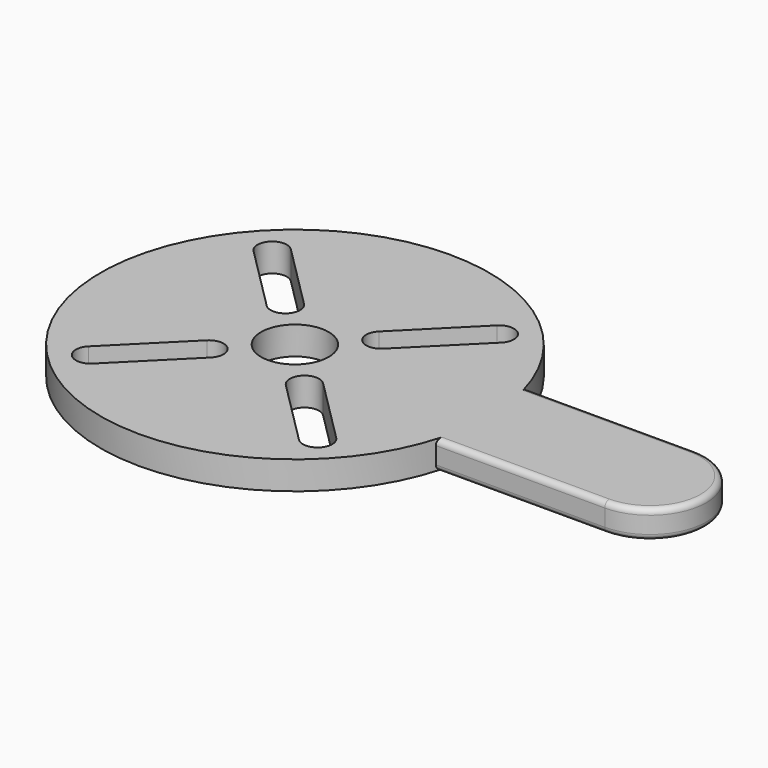
from build123d import *

# Parameters (mm, degrees)
SKETCH_R           = 3
PAD_DEPTH          = 2.5
POCKET_DEPTH       = 5
POLARPATTERN_COUNT = 4
FILLET_R           = 0.5


with BuildPart() as part:
    # Sketch → Pad (new body)
    with BuildSketch(Plane.XY):
        with BuildLine():
            ThreePointArc((16.509467, 5), (-17.25, 0), (16.509467, -5))
            Line((16.509467, -5), (31.509467, -5))
            ThreePointArc((31.509467, -5), (36.509467, 0), (31.509467, 5))
            Line((31.509467, 5), (16.509467, 5))
        make_face()
        Circle(SKETCH_R, mode=Mode.SUBTRACT)
    extrude(amount=PAD_DEPTH)

    # Sketch001 (on Face7 of Pad) → Pocket (cut)
    with BuildSketch(Plane.XY.offset(2.5)):
        with BuildLine():
            ThreePointArc((3.323402, 5.16188), (3.323402, 3.323402), (5.16188, 3.323402))
            Line((5.16188, 3.323402), (10.99551, 9.157033))
            ThreePointArc((10.99551, 9.157033), (10.99551, 10.99551), (9.157033, 10.99551))
            Line((9.157033, 10.99551), (3.323402, 5.16188))
        make_face()
    pocket = extrude(amount=-POCKET_DEPTH, mode=Mode.SUBTRACT)

    # PolarPattern: Pocket ×4 about axis
    polarpattern_axis = Axis((0, 0, 2.5), (0, 0, 1))
    for i in range(1, POLARPATTERN_COUNT):
        add(pocket.rotate(polarpattern_axis, i * 360 / POLARPATTERN_COUNT), mode=Mode.SUBTRACT)

    # Fillet
    fillet_edges = [part.edges().sort_by_distance(p)[0] for p in [
        (24.009467, 5, 2.5),
        (36.509467, 0, 2.5),
        (24.009467, -5, 2.5),
        (24.009467, -5, 0),
        (36.509467, 0, 0),
        (24.009467, 5, 0),
    ]]
    fillet(fillet_edges, radius=FILLET_R)


solid = part.part
